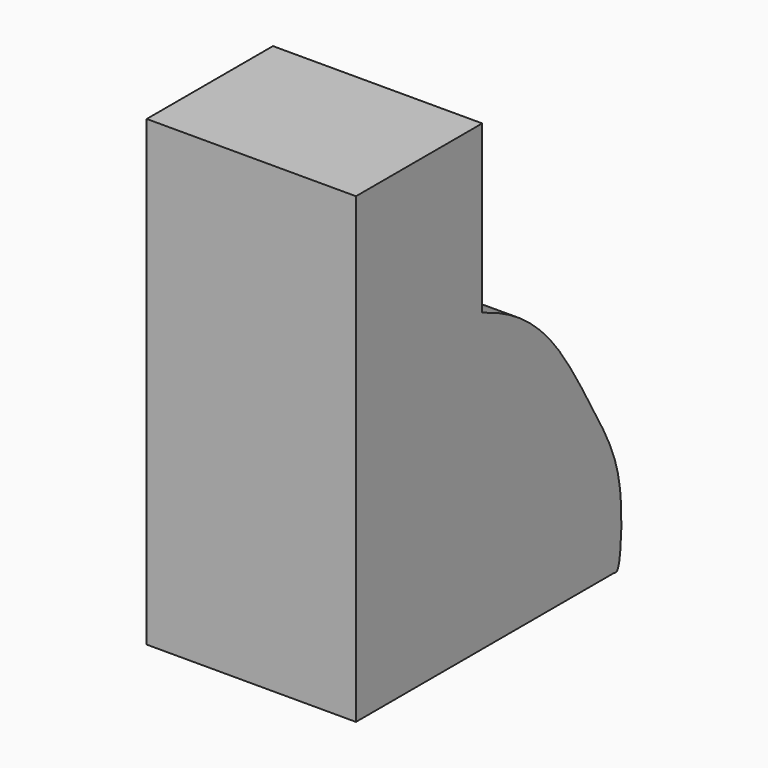
from build123d import *

# Parameters (mm, degrees)
F1_DEPTH = 25.4


with BuildPart() as f1:
    # F0 (on Right) → F1 (new body)
    with BuildSketch(Plane.YZ):
        with BuildLine():
            Line((-36.9195081294, 56.1760254204), (-56.0708381236, 56.1760254204))
            Line((-56.0708381236, 56.1760254204), (-56.0708381236, 0))
            Line((-56.0708381236, 0), (-16.9170089066, 0))
            add(Edge.make_bspline(
                [(-36.9195081294, 35.9607338905), (-35.4601229338, 35.3580538857), (-32.1631189369, 33.9964953399), (-25.8800850757, 28.9915492914), (-20.347271317, 19.1454647502), (-15.8846570192, 11.4601698018), (-15.6661719788, 4.0056512293), (-16.1933271118, -0.2408932737), (-16.7678721462, -0.0496434244), (-16.9170089066, 0)],
                knots=[0, 0, 0, 0, 0.1333911224, 0.3013536556, 0.5037239231, 0.6830726009, 0.8493105973, 0.9608849994, 1, 1, 1, 1], degree=3))
            Line((-36.9195081294, 35.9607338905), (-36.9195081294, 56.1760254204))
        make_face()
    extrude(amount=F1_DEPTH)


solid = f1.part
